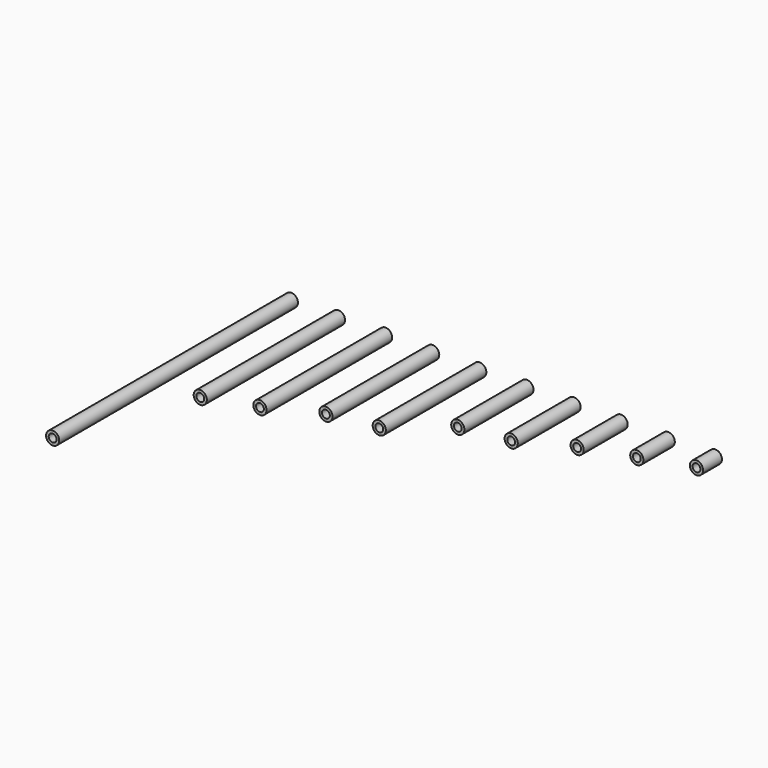
from build123d import *

# Parameters (mm, degrees)
F0_R      = 10.668
F0_R_2    = 6.35
F1_DEPTH  = 482.6
F2_R      = 10.668
F2_R_2    = 6.35
F3_DEPTH  = 279.4
F4_R      = 10.668
F4_R_2    = 6.35
F5_DEPTH  = 254
F6_R      = 10.668
F6_R_2    = 6.35
F7_DEPTH  = 215.9
F8_R      = 10.668
F8_R_2    = 6.35
F9_DEPTH  = 203.2
F10_R     = 10.668
F10_R_2   = 6.35
F11_DEPTH = 139.7
F12_R     = 10.668
F12_R_2   = 6.35
F13_DEPTH = 127
F14_R     = 10.668
F14_R_2   = 6.35
F15_DEPTH = 88.9
F16_R     = 10.668
F16_R_2   = 6.35
F17_DEPTH = 63.5
F18_R     = 10.668
F18_R_2   = 6.35
F19_DEPTH = 38.1


with BuildPart() as f1:
    # F0 (on Front) → F1 (new body)
    with BuildSketch(Plane.XZ):
        Circle(F0_R)
        Circle(F0_R_2, mode=Mode.SUBTRACT)
    extrude(amount=F1_DEPTH)


with BuildPart() as f3:
    # F2 (on Front) → F3 (new body)
    with BuildSketch(Plane.XZ):
        with Locations((76.2, 0)):
            Circle(F2_R)
        with Locations((76.2, 0)):
            Circle(F2_R_2, mode=Mode.SUBTRACT)
    extrude(amount=F3_DEPTH)


with BuildPart() as f5:
    # F4 (on Front) → F5 (new body)
    with BuildSketch(Plane.XZ):
        with Locations((152.4, 0)):
            Circle(F4_R)
        with Locations((152.4, 0)):
            Circle(F4_R_2, mode=Mode.SUBTRACT)
    extrude(amount=F5_DEPTH)


with BuildPart() as f7:
    # F6 (on Front) → F7 (new body)
    with BuildSketch(Plane.XZ):
        with Locations((228.6, 0)):
            Circle(F6_R)
        with Locations((228.6, 0)):
            Circle(F6_R_2, mode=Mode.SUBTRACT)
    extrude(amount=F7_DEPTH)


with BuildPart() as f9:
    # F8 (on Front) → F9 (new body)
    with BuildSketch(Plane.XZ):
        with Locations((304.8, 0)):
            Circle(F8_R)
        with Locations((304.8, 0)):
            Circle(F8_R_2, mode=Mode.SUBTRACT)
    extrude(amount=F9_DEPTH)


with BuildPart() as f11:
    # F10 (on Front) → F11 (new body)
    with BuildSketch(Plane.XZ):
        with Locations((381, 0)):
            Circle(F10_R)
        with Locations((381, 0)):
            Circle(F10_R_2, mode=Mode.SUBTRACT)
    extrude(amount=F11_DEPTH)


with BuildPart() as f13:
    # F12 (on Front) → F13 (new body)
    with BuildSketch(Plane.XZ):
        with Locations((457.2, 0)):
            Circle(F12_R)
        with Locations((457.2, 0)):
            Circle(F12_R_2, mode=Mode.SUBTRACT)
    extrude(amount=F13_DEPTH)


with BuildPart() as f15:
    # F14 (on Front) → F15 (new body)
    with BuildSketch(Plane.XZ):
        with Locations((533.4, 0)):
            Circle(F14_R)
        with Locations((533.4, 0)):
            Circle(F14_R_2, mode=Mode.SUBTRACT)
    extrude(amount=F15_DEPTH)


with BuildPart() as f17:
    # F16 (on Front) → F17 (new body)
    with BuildSketch(Plane.XZ):
        with Locations((609.6, 0)):
            Circle(F16_R)
        with Locations((609.6, 0)):
            Circle(F16_R_2, mode=Mode.SUBTRACT)
    extrude(amount=F17_DEPTH)


with BuildPart() as f19:
    # F18 (on Front) → F19 (new body)
    with BuildSketch(Plane.XZ):
        with Locations((685.8, 0)):
            Circle(F18_R)
        with Locations((685.8, 0)):
            Circle(F18_R_2, mode=Mode.SUBTRACT)
    extrude(amount=F19_DEPTH)


solid = Compound([f1.part, f3.part, f5.part, f7.part, f9.part, f11.part, f13.part, f15.part, f17.part, f19.part])
